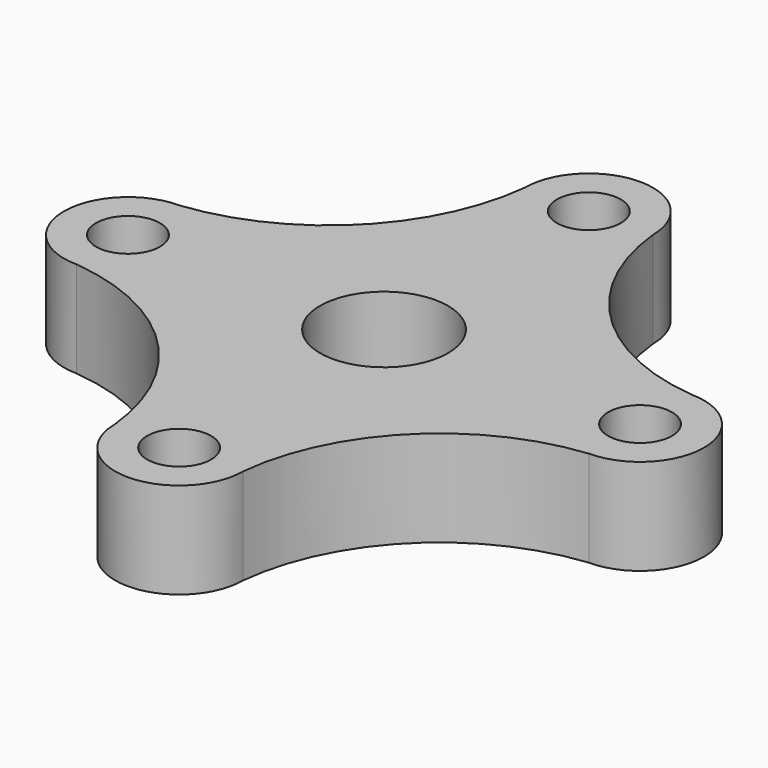
from build123d import *

# Parameters (mm, degrees)
F0_R     = 6.35
F0_R_2   = 12.7
F1_DEPTH = 19.05


with BuildPart() as f1:
    # F0 (on Top) → F1 (new body)
    with BuildSketch(Plane.XY):
        with BuildLine():
            ThreePointArc((-12.819798, 50.702801), (-25.146467, 24.929469), (-50.919798, 12.602801))
            ThreePointArc((-50.919798, 12.602801), (-63.619798, -0.097199), (-50.919798, -12.797199))
            ThreePointArc((-50.919798, -12.797199), (-25.101562, -25.078963), (-12.819798, -50.897199))
            ThreePointArc((-12.819798, -50.897199), (-0.119798, -63.597199), (12.580202, -50.897199))
            ThreePointArc((12.580202, -50.897199), (24.861978, -25.078975), (50.680202, -12.797199))
            ThreePointArc((50.680202, -12.797199), (63.380202, -0.097199), (50.680202, 12.602801))
            ThreePointArc((50.680202, 12.602801), (24.861988, 24.884588), (12.580202, 50.702801))
            ThreePointArc((12.580202, 50.702801), (-0.119798, 63.402801), (-12.819798, 50.702801))
        make_face()
        with Locations((-0.119798, -50.897199)):
            Circle(F0_R, mode=Mode.SUBTRACT)
        with Locations((-50.919798, -0.097199)):
            Circle(F0_R, mode=Mode.SUBTRACT)
        with Locations((-0.119798, -0.097199)):
            Circle(F0_R_2, mode=Mode.SUBTRACT)
        with Locations((-0.119798, 50.702801)):
            Circle(F0_R, mode=Mode.SUBTRACT)
        with Locations((50.680202, -0.097199)):
            Circle(F0_R, mode=Mode.SUBTRACT)
    extrude(amount=F1_DEPTH)


solid = f1.part
